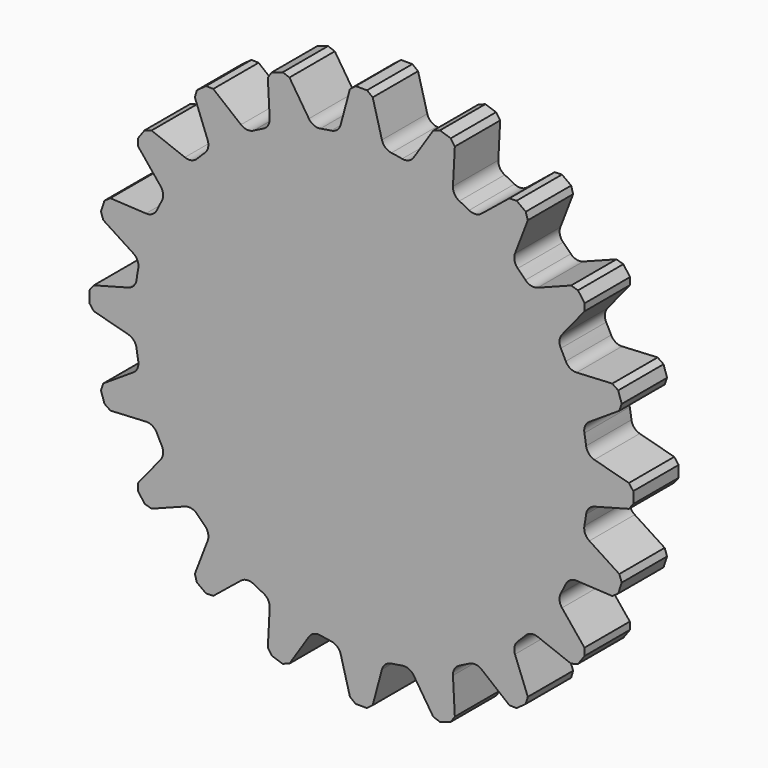
from build123d import *

# Parameters (mm, degrees)
F1_DEPTH = 25
F2_SIZE  = 2
F3_SIZE  = 2
F4_SIZE  = 2
F5_SIZE  = 2
F6_R     = 5


with BuildPart() as f1:
    # F0 (on Front) → F1 (new body)
    with BuildSketch(Plane.XZ):
        with BuildLine():
            ThreePointArc((99.501767, -9.969869), (99.875364, -4.991155), (100, 0))
            ThreePointArc((100, 0), (99.875364, 4.991155), (99.501767, 9.969869))
            ThreePointArc((99.501767, 9.969869), (98.768834, 15.643447), (97.712663, 21.265829))
            ThreePointArc((97.712663, 21.265829), (95.105652, 30.901699), (91.550945, 40.229646))
            ThreePointArc((91.550945, 40.229646), (89.100652, 45.39905), (86.358763, 50.419878))
            ThreePointArc((86.358763, 50.419878), (80.901699, 58.778525), (74.638479, 66.551465))
            ThreePointArc((74.638479, 66.551465), (70.710678, 70.710678), (66.551465, 74.638479))
            ThreePointArc((66.551465, 74.638479), (58.778525, 80.901699), (50.419878, 86.358763))
            ThreePointArc((50.419878, 86.358763), (45.39905, 89.100652), (40.229646, 91.550945))
            ThreePointArc((40.229646, 91.550945), (30.901699, 95.105652), (21.265829, 97.712663))
            ThreePointArc((21.265829, 97.712663), (15.643447, 98.768834), (9.969869, 99.501767))
            ThreePointArc((9.969869, 99.501767), (0, 100), (-9.969869, 99.501767))
            ThreePointArc((-9.969869, 99.501767), (-15.643447, 98.768834), (-21.265829, 97.712663))
            ThreePointArc((-21.265829, 97.712663), (-30.901699, 95.105652), (-40.229646, 91.550945))
            ThreePointArc((-40.229646, 91.550945), (-45.39905, 89.100652), (-50.419878, 86.358763))
            ThreePointArc((-50.419878, 86.358763), (-58.778525, 80.901699), (-66.551465, 74.638479))
            ThreePointArc((-66.551465, 74.638479), (-70.710678, 70.710678), (-74.638479, 66.551465))
            ThreePointArc((-74.638479, 66.551465), (-80.901699, 58.778525), (-86.358763, 50.419878))
            ThreePointArc((-86.358763, 50.419878), (-89.100652, 45.39905), (-91.550945, 40.229646))
            ThreePointArc((-91.550945, 40.229646), (-95.105652, 30.901699), (-97.712663, 21.265829))
            ThreePointArc((-97.712663, 21.265829), (-98.768834, 15.643447), (-99.501767, 9.969869))
            ThreePointArc((-99.501767, 9.969869), (-100, 0), (-99.501767, -9.969869))
            ThreePointArc((-99.501767, -9.969869), (-98.768834, -15.643447), (-97.712663, -21.265829))
            ThreePointArc((-97.712663, -21.265829), (-95.105652, -30.901699), (-91.550945, -40.229646))
            ThreePointArc((-91.550945, -40.229646), (-89.100652, -45.39905), (-86.358763, -50.419878))
            ThreePointArc((-86.358763, -50.419878), (-80.901699, -58.778525), (-74.638479, -66.551465))
            ThreePointArc((-74.638479, -66.551465), (-70.710678, -70.710678), (-66.551465, -74.638479))
            ThreePointArc((-66.551465, -74.638479), (-58.778525, -80.901699), (-50.419878, -86.358763))
            ThreePointArc((-50.419878, -86.358763), (-45.39905, -89.100652), (-40.229646, -91.550945))
            ThreePointArc((-40.229646, -91.550945), (-30.901699, -95.105652), (-21.265829, -97.712663))
            ThreePointArc((-21.265829, -97.712663), (-15.643447, -98.768834), (-9.969869, -99.501767))
            ThreePointArc((-9.969869, -99.501767), (0, -100), (9.969869, -99.501767))
            ThreePointArc((9.969869, -99.501767), (15.643447, -98.768834), (21.265829, -97.712663))
            ThreePointArc((21.265829, -97.712663), (30.901699, -95.105652), (40.229646, -91.550945))
            ThreePointArc((40.229646, -91.550945), (45.39905, -89.100652), (50.419878, -86.358763))
            ThreePointArc((50.419878, -86.358763), (58.778525, -80.901699), (66.551465, -74.638479))
            ThreePointArc((66.551465, -74.638479), (70.710678, -70.710678), (74.638479, -66.551465))
            ThreePointArc((74.638479, -66.551465), (80.901699, -58.778525), (86.358763, -50.419878))
            ThreePointArc((86.358763, -50.419878), (89.100652, -45.39905), (91.550945, -40.229646))
            ThreePointArc((91.550945, -40.229646), (95.105652, -30.901699), (97.712663, -21.265829))
            ThreePointArc((97.712663, -21.265829), (98.768834, -15.643447), (99.501767, -9.969869))
        make_face()
        with BuildLine():
            ThreePointArc((99.501767, 9.969869), (99.875364, 4.991155), (100, 0))
            ThreePointArc((100, 0), (99.875364, -4.991155), (99.501767, -9.969869))
            Line((99.501767, -9.969869), (119.915595, -4.5))
            Line((119.915595, -4.5), (119.915595, 4.5))
            Line((119.915595, 4.5), (99.501767, 9.969869))
        make_face()
        with BuildLine():
            ThreePointArc((91.550945, 40.229646), (95.105652, 30.901699), (97.712663, 21.265829))
            Line((97.712663, 21.265829), (115.437085, 32.776203))
            Line((115.437085, 32.776203), (112.655932, 41.335711))
            Line((112.655932, 41.335711), (91.550945, 40.229646))
        make_face()
        with BuildLine():
            Line((115.437085, -32.776203), (97.712663, -21.265829))
            ThreePointArc((97.712663, -21.265829), (95.105652, -30.901699), (91.550945, -40.229646))
            Line((91.550945, -40.229646), (112.655932, -41.335711))
            Line((112.655932, -41.335711), (115.437085, -32.776203))
        make_face()
        with BuildLine():
            ThreePointArc((74.638479, 66.551465), (80.901699, 58.778525), (86.358763, 50.419878))
            Line((86.358763, 50.419878), (99.658788, 66.844042))
            Line((99.658788, 66.844042), (94.368721, 74.125195))
            Line((94.368721, 74.125195), (74.638479, 66.551465))
        make_face()
        with BuildLine():
            Line((99.658788, -66.844042), (86.358763, -50.419878))
            ThreePointArc((86.358763, -50.419878), (80.901699, -58.778525), (74.638479, -66.551465))
            Line((74.638479, -66.551465), (94.368721, -74.125195))
            Line((94.368721, -74.125195), (99.658788, -66.844042))
        make_face()
        with BuildLine():
            ThreePointArc((50.419878, 86.358763), (58.778525, 80.901699), (66.551465, 74.638479))
            Line((66.551465, 74.638479), (74.125195, 94.368721))
            Line((74.125195, 94.368721), (66.844042, 99.658788))
            Line((66.844042, 99.658788), (50.419878, 86.358763))
        make_face()
        with BuildLine():
            Line((74.125195, -94.368721), (66.551465, -74.638479))
            ThreePointArc((66.551465, -74.638479), (58.778525, -80.901699), (50.419878, -86.358763))
            Line((50.419878, -86.358763), (66.844042, -99.658788))
            Line((66.844042, -99.658788), (74.125195, -94.368721))
        make_face()
        with BuildLine():
            ThreePointArc((21.265829, 97.712663), (30.901699, 95.105652), (40.229646, 91.550945))
            Line((40.229646, 91.550945), (41.335711, 112.655932))
            Line((41.335711, 112.655932), (32.776203, 115.437085))
            Line((32.776203, 115.437085), (21.265829, 97.712663))
        make_face()
        with BuildLine():
            Line((41.335711, -112.655932), (40.229646, -91.550945))
            ThreePointArc((40.229646, -91.550945), (30.901699, -95.105652), (21.265829, -97.712663))
            Line((21.265829, -97.712663), (32.776203, -115.437085))
            Line((32.776203, -115.437085), (41.335711, -112.655932))
        make_face()
        with BuildLine():
            ThreePointArc((-9.969869, 99.501767), (0, 100), (9.969869, 99.501767))
            Line((9.969869, 99.501767), (4.5, 119.915595))
            Line((4.5, 119.915595), (-4.5, 119.915595))
            Line((-4.5, 119.915595), (-9.969869, 99.501767))
        make_face()
        with BuildLine():
            Line((4.5, -119.915595), (9.969869, -99.501767))
            ThreePointArc((9.969869, -99.501767), (0, -100), (-9.969869, -99.501767))
            Line((-9.969869, -99.501767), (-4.5, -119.915595))
            Line((-4.5, -119.915595), (4.5, -119.915595))
        make_face()
        with BuildLine():
            ThreePointArc((-40.229646, 91.550945), (-30.901699, 95.105652), (-21.265829, 97.712663))
            Line((-21.265829, 97.712663), (-32.776203, 115.437085))
            Line((-32.776203, 115.437085), (-41.335711, 112.655932))
            Line((-41.335711, 112.655932), (-40.229646, 91.550945))
        make_face()
        with BuildLine():
            Line((-32.776203, -115.437085), (-21.265829, -97.712663))
            ThreePointArc((-21.265829, -97.712663), (-30.901699, -95.105652), (-40.229646, -91.550945))
            Line((-40.229646, -91.550945), (-41.335711, -112.655932))
            Line((-41.335711, -112.655932), (-32.776203, -115.437085))
        make_face()
        with BuildLine():
            ThreePointArc((-66.551465, 74.638479), (-58.778525, 80.901699), (-50.419878, 86.358763))
            Line((-50.419878, 86.358763), (-66.844042, 99.658788))
            Line((-66.844042, 99.658788), (-74.125195, 94.368721))
            Line((-74.125195, 94.368721), (-66.551465, 74.638479))
        make_face()
        with BuildLine():
            Line((-66.844042, -99.658788), (-50.419878, -86.358763))
            ThreePointArc((-50.419878, -86.358763), (-58.778525, -80.901699), (-66.551465, -74.638479))
            Line((-66.551465, -74.638479), (-74.125195, -94.368721))
            Line((-74.125195, -94.368721), (-66.844042, -99.658788))
        make_face()
        with BuildLine():
            ThreePointArc((-86.358763, 50.419878), (-80.901699, 58.778525), (-74.638479, 66.551465))
            Line((-74.638479, 66.551465), (-94.368721, 74.125195))
            Line((-94.368721, 74.125195), (-99.658788, 66.844042))
            Line((-99.658788, 66.844042), (-86.358763, 50.419878))
        make_face()
        with BuildLine():
            Line((-94.368721, -74.125195), (-74.638479, -66.551465))
            ThreePointArc((-74.638479, -66.551465), (-80.901699, -58.778525), (-86.358763, -50.419878))
            Line((-86.358763, -50.419878), (-99.658788, -66.844042))
            Line((-99.658788, -66.844042), (-94.368721, -74.125195))
        make_face()
        with BuildLine():
            ThreePointArc((-97.712663, 21.265829), (-95.105652, 30.901699), (-91.550945, 40.229646))
            Line((-91.550945, 40.229646), (-112.655932, 41.335711))
            Line((-112.655932, 41.335711), (-115.437085, 32.776203))
            Line((-115.437085, 32.776203), (-97.712663, 21.265829))
        make_face()
        with BuildLine():
            Line((-112.655932, -41.335711), (-91.550945, -40.229646))
            ThreePointArc((-91.550945, -40.229646), (-95.105652, -30.901699), (-97.712663, -21.265829))
            Line((-97.712663, -21.265829), (-115.437085, -32.776203))
            Line((-115.437085, -32.776203), (-112.655932, -41.335711))
        make_face()
        with BuildLine():
            ThreePointArc((-99.501767, -9.969869), (-100, 0), (-99.501767, 9.969869))
            Line((-99.501767, 9.969869), (-119.915595, 4.5))
            Line((-119.915595, 4.5), (-119.915595, -4.5))
            Line((-119.915595, -4.5), (-99.501767, -9.969869))
        make_face()
    extrude(amount=F1_DEPTH)

    # F2
    f2_edges = [f1.edges().sort_by_distance(p)[0] for p in [
        (66.844042, -12.5, 99.658788),
        (74.125195, -12.5, 94.368721),
    ]]
    chamfer(f2_edges, length=F2_SIZE)

    # F3
    f3_edges = [f1.edges().sort_by_distance(p)[0] for p in [
        (94.368721, -12.5, 74.125195),
        (99.658788, -12.5, 66.844042),
        (112.655932, -12.5, 41.335711),
        (115.437085, -12.5, 32.776203),
        (119.915595, -12.5, 4.5),
        (119.915595, -12.5, -4.5),
        (115.437085, -12.5, -32.776203),
        (112.655932, -12.5, -41.335711),
        (99.658788, -12.5, -66.844042),
        (94.368721, -12.5, -74.125195),
        (74.125195, -12.5, -94.368721),
        (66.844042, -12.5, -99.658788),
        (41.335711, -12.5, -112.655932),
        (32.776203, -12.5, -115.437085),
    ]]
    chamfer(f3_edges, length=F3_SIZE)

    # F4
    f4_edges = [f1.edges().sort_by_distance(p)[0] for p in [
        (4.5, -12.5, -119.915595),
        (-4.5, -12.5, -119.915595),
        (-32.776203, -12.5, -115.437085),
        (-41.335711, -12.5, -112.655932),
        (-66.844042, -12.5, -99.658788),
        (-74.125195, -12.5, -94.368721),
        (-94.368721, -12.5, -74.125195),
        (-99.658788, -12.5, -66.844042),
        (-112.655932, -12.5, -41.335711),
        (-115.437085, -12.5, -32.776203),
        (-119.915595, -12.5, -4.5),
        (-119.915595, -12.5, 4.5),
        (-115.437085, -12.5, 32.776203),
        (-112.655932, -12.5, 41.335711),
        (-99.658788, -12.5, 66.844042),
        (-94.368721, -12.5, 74.125195),
        (-74.125195, -12.5, 94.368721),
        (-66.844042, -12.5, 99.658788),
    ]]
    chamfer(f4_edges, length=F4_SIZE)

    # F5
    f5_edges = [f1.edges().sort_by_distance(p)[0] for p in [
        (-41.335711, -12.5, 112.655932),
        (-32.776203, -12.5, 115.437085),
        (-4.5, -12.5, 119.915595),
        (4.5, -12.5, 119.915595),
        (32.776203, -12.5, 115.437085),
        (41.335711, -12.5, 112.655932),
    ]]
    chamfer(f5_edges, length=F5_SIZE)

    # F6
    f6_edges = [f1.edges().sort_by_distance(p)[0] for p in [
        (-50.419878, -12.5, 86.358763),
        (-40.229646, -12.5, 91.550945),
        (-21.265829, -12.5, 97.712663),
        (-9.969869, -12.5, 99.501767),
        (9.969869, -12.5, 99.501767),
        (21.265829, -12.5, 97.712663),
        (40.229646, -12.5, 91.550945),
        (50.419878, -12.5, 86.358763),
        (66.551465, -12.5, 74.638479),
        (74.638479, -12.5, 66.551465),
        (86.358763, -12.5, 50.419878),
        (91.550945, -12.5, 40.229646),
        (97.712663, -12.5, 21.265829),
        (99.501767, -12.5, 9.969869),
        (99.501767, -12.5, -9.969869),
        (97.712663, -12.5, -21.265829),
        (91.550945, -12.5, -40.229646),
        (86.358763, -12.5, -50.419878),
        (74.638479, -12.5, -66.551465),
        (66.551465, -12.5, -74.638479),
        (50.419878, -12.5, -86.358763),
        (40.229646, -12.5, -91.550945),
        (21.265829, -12.5, -97.712663),
        (9.969869, -12.5, -99.501767),
        (-9.969869, -12.5, -99.501767),
        (-21.265829, -12.5, -97.712663),
        (-40.229646, -12.5, -91.550945),
        (-50.419878, -12.5, -86.358763),
        (-66.551465, -12.5, -74.638479),
        (-74.638479, -12.5, -66.551465),
        (-86.358763, -12.5, -50.419878),
        (-91.550945, -12.5, -40.229646),
        (-97.712663, -12.5, -21.265829),
        (-99.501767, -12.5, -9.969869),
        (-99.501767, -12.5, 9.969869),
        (-97.712663, -12.5, 21.265829),
        (-91.550945, -12.5, 40.229646),
        (-86.358763, -12.5, 50.419878),
        (-74.638479, -12.5, 66.551465),
        (-66.551465, -12.5, 74.638479),
    ]]
    fillet(f6_edges, radius=F6_R)


solid = f1.part
